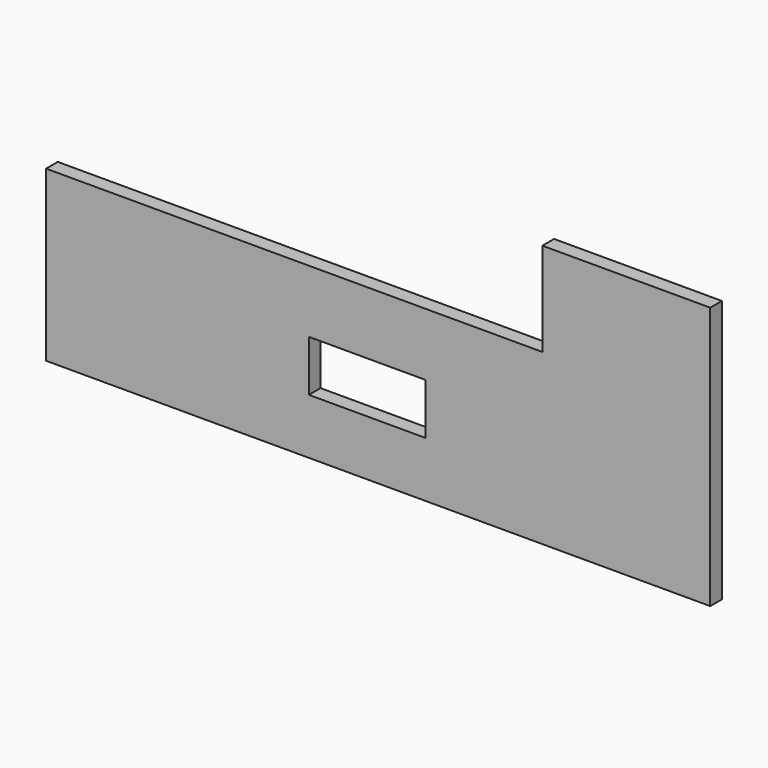
from build123d import *

# Parameters (mm, degrees)
BOX034_W     = 68
BOX034_H     = 10
BOX034_DEPTH = 16
BOX030_W     = 16
BOX030_H     = 3
BOX030_DEPTH = 7
BOX029_W     = 91
BOX029_H     = 2
BOX029_DEPTH = 36


with BuildPart() as cube031:
    # Box034 → Box034 (new body)
    with BuildSketch(Plane(origin=(-57, 9, -6.62), x_dir=(1, 0, 0), z_dir=(0, 0, 1))):
        with Locations((34, 5)):
            Rectangle(BOX034_W, BOX034_H)
    extrude(amount=BOX034_DEPTH)


with BuildPart() as hdmi_hole:
    # Box030 → Box030 (new body)
    with BuildSketch(Plane(origin=(-21, 15.5, -22.2), x_dir=(1, 0, 0), z_dir=(0, 0, 1))):
        with Locations((8, 1.5)):
            Rectangle(BOX030_W, BOX030_H)
    extrude(amount=BOX030_DEPTH)


with BuildPart() as cut018:
    # Box029 → Box029 (new body)
    with BuildSketch(Plane(origin=(-57, 15.8, -29.8), x_dir=(1, 0, 0), z_dir=(0, 0, 1))):
        with Locations((45.5, 1)):
            Rectangle(BOX029_W, BOX029_H)
    extrude(amount=BOX029_DEPTH)

    # Cut014: cut HDMI_hole
    add(hdmi_hole.part, mode=Mode.SUBTRACT)

    # Cut018: cut Cube031
    add(cube031.part, mode=Mode.SUBTRACT)


solid = cut018.part
